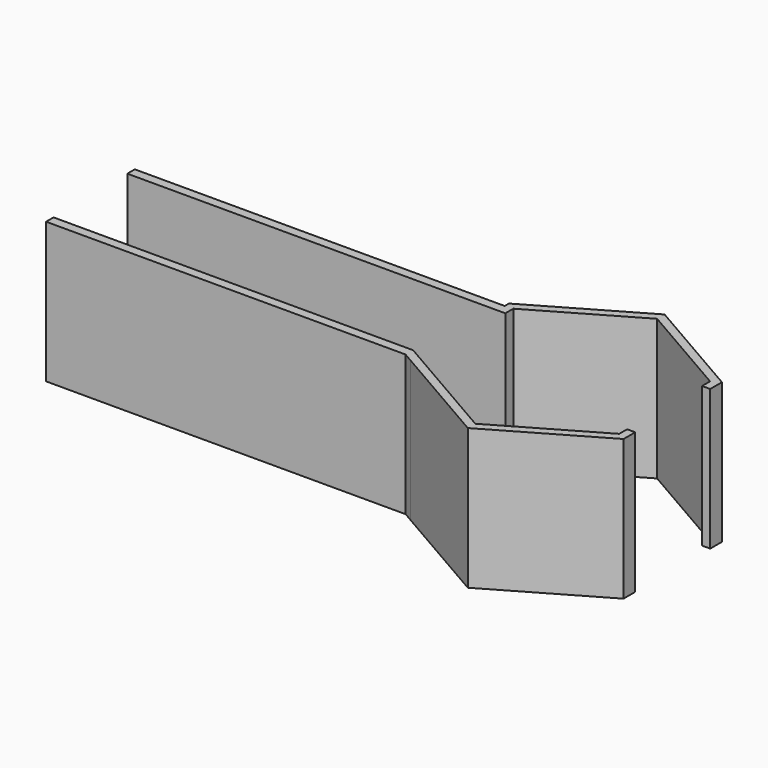
from build123d import *

# Parameters (mm, degrees)
F1_DEPTH  = 25
F3_DEPTH  = 15
F5_W      = 81.856458
F5_H      = 20
F6_DEPTH  = 15
F7_W      = 76.722559
F7_H      = 2
F8_DEPTH  = 15
F10_DEPTH = 15
F11_W     = 80.67
F11_H     = 2
F12_DEPTH = 15


with BuildPart() as f1:
    # F0 (on Top) → F1 (new body, symmetric)
    with BuildSketch(Plane.XY):
        Polygon((21, -12.124356), (21, 12.124356), (0, 24.248711), (-21, 12.124356), (-21, -12.124356), (0, -24.248711), align=None)
    extrude(amount=F1_DEPTH, both=True)


with BuildPart() as f3:
    # F2 (on Top) → F3 (new body, symmetric)
    with BuildSketch(Plane.XY):
        Polygon((0, -26.248711), (22.732051, -13.124356), (22.732051, 13.124356), (0, 26.248711), (-22.732051, 13.124356), (-22.732051, -13.124356), align=None)
    extrude(amount=F3_DEPTH, both=True)

    # F4: cut F1
    add(f1.part, mode=Mode.SUBTRACT)

    # F5 (on Top) → F6 (cut, symmetric)
    with BuildSketch(Plane.XY):
        Rectangle(F5_W, F5_H)
    extrude(amount=F6_DEPTH, both=True, mode=Mode.SUBTRACT)

    # F7 (on Top) → F8 (join, symmetric)
    with BuildSketch(Plane.XY):
        with Locations((-63.040771, -11)):
            Rectangle(F7_W, F7_H)
        Polygon((-24.679492, -10), (-24.679492, -12), (-22.732051, -12), (-22.732051, -11.124356), align=None)
        Polygon((-24.679492, -12), (-13.486716, -18.462152), (-12.640724, -16.950586), (-22.732051, -11.124356), (-22.732051, -12), align=None)
    extrude(amount=F8_DEPTH, both=True)

    # F9 (on Top) → F10 (cut, symmetric)
    with BuildSketch(Plane.XY):
        Polygon((-25.777998, -9.365777), (-19.458776, -13.014182), (-18.305326, -9.365777), align=None)
    extrude(amount=F10_DEPTH, both=True, mode=Mode.SUBTRACT)

    # F11 (on Top) → F12 (join, symmetric)
    with BuildSketch(Plane.XY):
        with Locations((-61.335, 11)):
            Rectangle(F11_W, F11_H)
    extrude(amount=F12_DEPTH, both=True)


solid = f3.part
